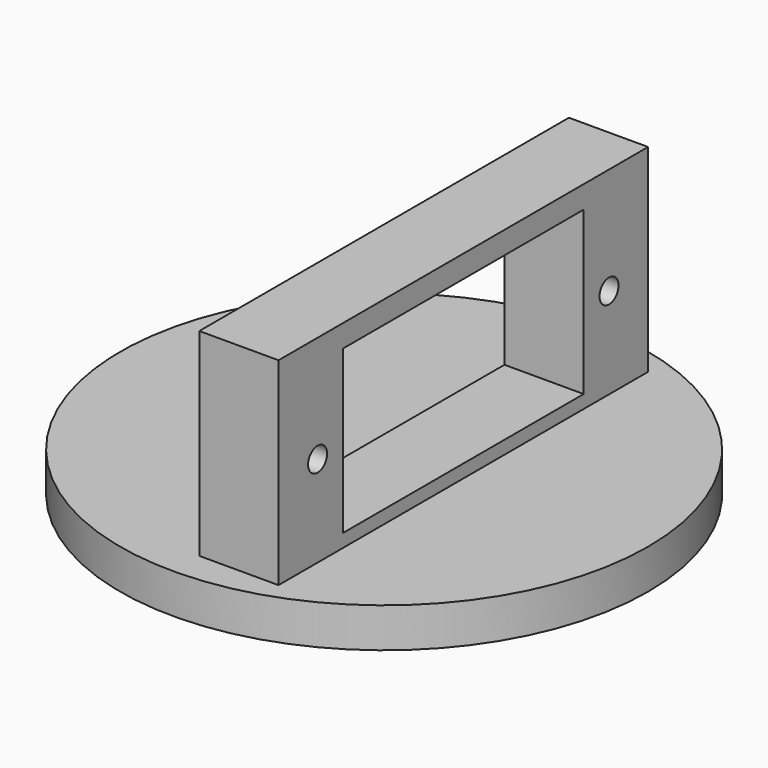
from build123d import *

# Parameters (mm, degrees)
F0_R     = 0.9
F1_DEPTH = 6
F2_R     = 20
F2_R_2   = 0.5
F3_DEPTH = 3


with BuildPart() as f1:
    # F0 (on Right) → F1 (new body)
    with BuildSketch(Plane.YZ):
        Polygon((17.5, -6.9), (17.5, 5.6), (17.5, 6.9), (17.5, 8.1), (-17.5, 8.1), (-17.5, 6.9), (-17.5, -6.9), align=None)
        with Locations((-13.8, 0)):
            Circle(F0_R, mode=Mode.SUBTRACT)
        Polygon((11.4, 6.4), (11.4, 5.9), (11.4, -5.9), (-11.4, -5.9), (-11.4, 5.9), (-11.4, 6.4), align=None, mode=Mode.SUBTRACT)
        with Locations((13.8, 0)):
            Circle(F0_R, mode=Mode.SUBTRACT)
    extrude(amount=F1_DEPTH)

    # F2 (on face) → F3 (join)
    with BuildSketch(Plane(origin=(0, 0, -6.9), x_dir=(1, 0, 0), z_dir=(0, 0, -1))):
        Circle(F2_R)
        Circle(F2_R_2, mode=Mode.SUBTRACT)
    extrude(amount=F3_DEPTH)


solid = f1.part
